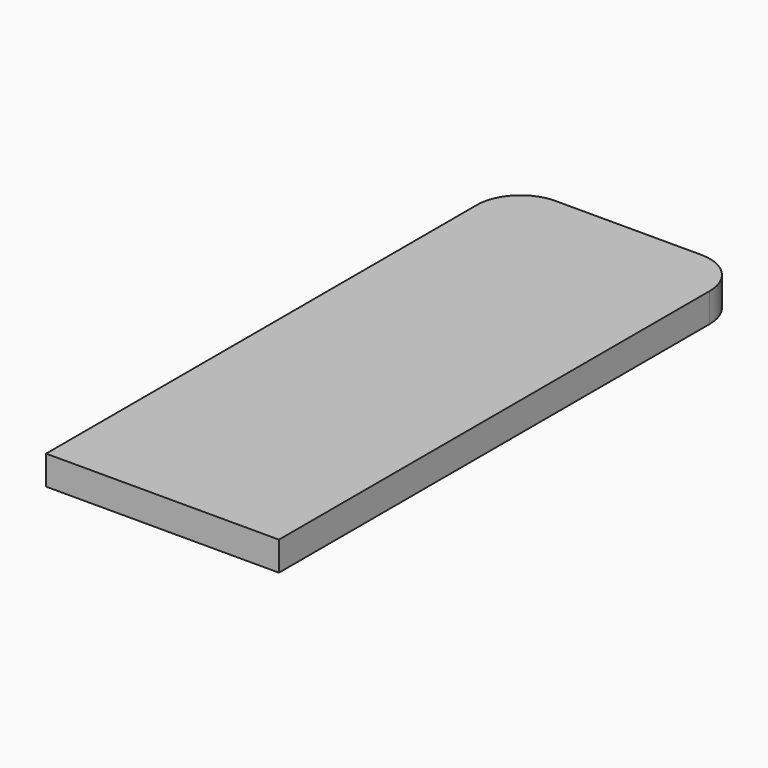
from build123d import *

# Parameters (mm, degrees)
F1_DEPTH = 2.54
F4_DEPTH = 10


with BuildPart() as f1:
    # F0 (on Top) → F1 (new body)
    with BuildSketch(Plane.XY):
        with BuildLine():
            Line((11.0244164243, 29.6400431544), (0, 29.6400431544))
            Line((0, 29.6400431544), (-11.0244164243, 29.6400431544))
            add(Edge.make_bspline(
                [(-11.0244164243, 29.6400431544), (-19.7652843985, 29.6400431544), (-31.2645126812, 26.8662396786), (-34.4778372712, 15.8377015636), (-34.6175096929, 8.574783802)],
                knots=[0, 0, 0, 0, 0.5156604328, 1, 1, 1, 1], degree=3))
            Line((-34.6175096929, 8.574783802), (-34.6175096929, -34.9600836635))
            Line((-34.6175096929, -34.9600836635), (0, -34.9600836635))
            Line((0, -34.9600836635), (34.6175096929, -34.9600836635))
            Line((34.6175096929, -34.9600836635), (34.6175096929, 8.574783802))
            add(Edge.make_bspline(
                [(11.0244164243, 29.6400431544), (19.7652843985, 29.6400431544), (31.2645126812, 26.8662396786), (34.4778372712, 15.8377015636), (34.6175096929, 8.574783802)],
                knots=[0, 0, 0, 0, 0.5156604328, 1, 1, 1, 1], degree=3))
        make_face()
    extrude(amount=F1_DEPTH)


with BuildPart() as f4:
    # F3 (on Top) → F4 (new body)
    with BuildSketch(Plane.XY):
        with BuildLine():
            Line((0, 185), (0, 0))
            Line((0, 0), (80, 0))
            Line((80, 0), (80, 185))
            ThreePointArc((80, 185), (75.6066017178, 195.6066017178), (65, 200))
            Line((65, 200), (15, 200))
            ThreePointArc((15, 200), (4.3933982822, 195.6066017178), (0, 185))
        make_face()
    extrude(amount=F4_DEPTH)


solid = f4.part
